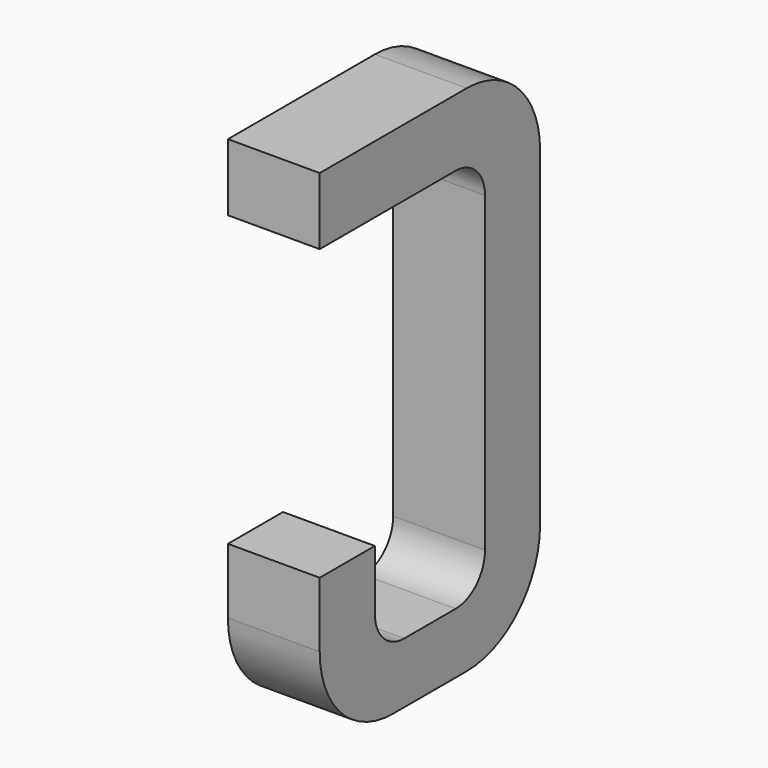
from build123d import *

# Parameters (mm, degrees)
BOX013_W     = 0.5
BOX013_H     = 1.5
BOX013_DEPTH = 2.795
FILLET047_R  = 0.5
FILLET042_R  = 0.5
FILLET046_R  = 0.5
BOX018_W     = 0.75
BOX018_H     = 2.1
BOX018_DEPTH = 1
FILLET049_R  = 0.2
FILLET050_R  = 0.2
FILLET044_R  = 0.2
FILLET048_R  = 0.2
BOX020_W     = 1
BOX020_H     = 1.575
BOX020_DEPTH = 3


with BuildPart() as part:
    # Box013 → Box013 (join)
    with BuildSketch(Plane(origin=(-0.25, 11.125, 0), x_dir=(1, 0, 0), z_dir=(0, 0, 1))):
        with Locations((0.25, 0.75)):
            Rectangle(BOX013_W, BOX013_H)
    extrude(amount=BOX013_DEPTH)

    # Fillet047
    fillet047_edges = [part.edges().sort_by_distance(p)[0] for p in [
        (0, 12.625, 0),
    ]]
    fillet(fillet047_edges, radius=FILLET047_R)

    # Fillet042
    fillet042_edges = [part.edges().sort_by_distance(p)[0] for p in [
        (0, 12.625, 2.795),
    ]]
    fillet(fillet042_edges, radius=FILLET042_R)

    # Fillet046
    fillet046_edges = [part.edges().sort_by_distance(p)[0] for p in [
        (0, 11.125, 0),
    ]]
    fillet(fillet046_edges, radius=FILLET046_R)

    # Box018 → Box018 (cut)
    with BuildSketch(Plane(origin=(-0.5, 11.5, 0.33), x_dir=(0, 1, 0), z_dir=(1, 0, 0))):
        with Locations((0.375, 1.05)):
            Rectangle(BOX018_W, BOX018_H)
    extrude(amount=BOX018_DEPTH, mode=Mode.SUBTRACT)

    # Fillet049
    fillet049_edges = [part.edges().sort_by_distance(p)[0] for p in [
        (0, 11.5, 0.33),
    ]]
    fillet(fillet049_edges, radius=FILLET049_R)

    # Fillet050
    fillet050_edges = [part.edges().sort_by_distance(p)[0] for p in [
        (0, 12.25, 0.33),
    ]]
    fillet(fillet050_edges, radius=FILLET050_R)

    # Fillet044
    fillet044_edges = [part.edges().sort_by_distance(p)[0] for p in [
        (0, 11.5, 2.43),
    ]]
    fillet(fillet044_edges, radius=FILLET044_R)

    # Fillet048
    fillet048_edges = [part.edges().sort_by_distance(p)[0] for p in [
        (0, 12.25, 2.43),
    ]]
    fillet(fillet048_edges, radius=FILLET048_R)

    # Box020 → Box020 (cut)
    with BuildSketch(Plane(origin=(-1, 11, 0.855), x_dir=(0, 1, 0), z_dir=(1, 0, 0))):
        with Locations((0.5, 0.7875)):
            Rectangle(BOX020_W, BOX020_H)
    extrude(amount=BOX020_DEPTH, mode=Mode.SUBTRACT)


with BuildPart() as part_1:
    # Body007 placement: moved
    add(part.part.moved(Location((6.35, 0, 0))))


solid = part_1.part
